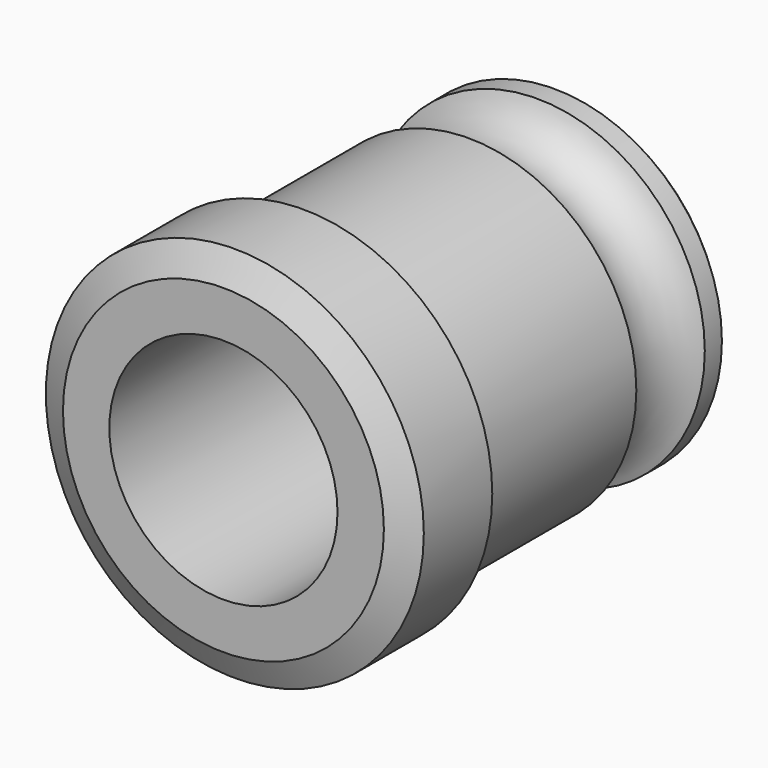
from build123d import *

# Parameters (mm, degrees)
CHAMFER003_SIZE  = 0.25
CHAMFER004_SIZE2 = 0.5
CHAMFER004_SIZE  = 1


with BuildPart() as part:
    # Sketch007 → Revolution (revolve)
    with BuildSketch(Plane.XY):
        with BuildLine():
            Line((4, 18.375), (5.875, 18.375))
            Line((5.875, 18.375), (5.875, 17.375))
            ThreePointArc((5.875, 17.375), (4.7938611699, 15.875), (5.875, 14.375))
            Line((5.875, 14.375), (5.875, 7.125))
            Line((5.875, 7.125), (6.625, 7.125))
            Line((6.625, 3.625), (6.625, 7.125))
            Line((4, 3.625), (6.625, 3.625))
            Line((4, 18.375), (4, 3.625))
        make_face()
    revolve(axis=Axis((0, 0, 0), (0, 1, 0)))

    # Chamfer003
    chamfer003_edges = [part.edges().sort_by_distance(p)[0] for p in [
        (-4, 18.375, 0),
        (-5.875, 18.375, 0),
    ]]
    chamfer(chamfer003_edges, length=CHAMFER003_SIZE)

    # Chamfer004
    chamfer004_edges = [part.edges().sort_by_distance(p)[0] for p in [
        (-6.625, 3.625, 0),
    ]]
    chamfer004_side = part.faces().sort_by_distance((-4.187383, 3.625, 0))[0]
    chamfer(chamfer004_edges, length=CHAMFER004_SIZE, length2=CHAMFER004_SIZE2, reference=chamfer004_side)


with BuildPart() as part_1:
    # Body006 placement: moved
    add(part.part.moved(Location((12.5, 0, 0))))


solid = part_1.part
